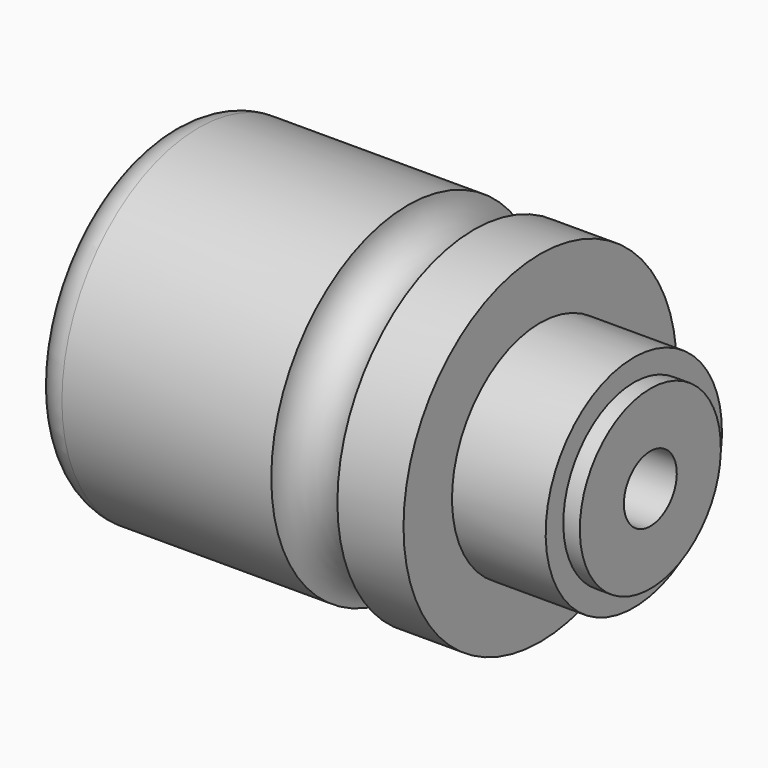
from build123d import *

# Parameters (mm, degrees)
F0_W   = 3
F0_H   = 10
F0_W_2 = 44
F0_H_2 = 25
F2_R   = 6
F3_W   = 3
F3_H   = 6.5
F3_W_2 = 8
F3_H_2 = 10


with BuildPart() as f1:
    # F0 (on Front) → F1 (revolve)
    with BuildSketch(Plane.XZ):
        with Locations((1.5, 11)):
            Rectangle(F0_W, F0_H)
        Polygon((-17, 6), (0, 6), (0, 16), (0, 20), (-17, 20), align=None)
        Polygon((-29, 6), (-17, 6), (-17, 20), (-17, 31), (-29, 31), align=None)
        with BuildLine():
            Line((-41, 6), (-29, 6))
            Line((-29, 6), (-29, 31))
            ThreePointArc((-29, 31), (-35, 25), (-41, 31))
            Line((-41, 31), (-41, 6))
        make_face()
        with Locations((-63, 18.5)):
            Rectangle(F0_W_2, F0_H_2)
    revolve(axis=Axis((-0.275247, 0, 0), (1, 0, 0)))

    # F2
    f2_edges = [f1.edges().sort_by_distance(p)[0] for p in [
        (-85, 0, -31),
    ]]
    fillet(f2_edges, radius=F2_R)

    # F3 (on Front) → F4 (revolve, cut)
    with BuildSketch(Plane.XZ):
        Polygon((-71.5, 16), (-83.5, 16), (-83.5, 6), (-71.5, 6), (-71.5, 12.5), align=None)
        with Locations((-70, 9.25)):
            Rectangle(F3_W, F3_H)
        Polygon((-68.5, 12.5), (-68.5, 6), (-63, 6), (-63, 16), (-63, 20.5), (-68.5, 20.5), align=None)
        with Locations((-59, 11)):
            Rectangle(F3_W_2, F3_H_2)
    revolve(axis=Axis((-38.937337, 0, 0), (1, 0, 0)), mode=Mode.SUBTRACT)


solid = f1.part
